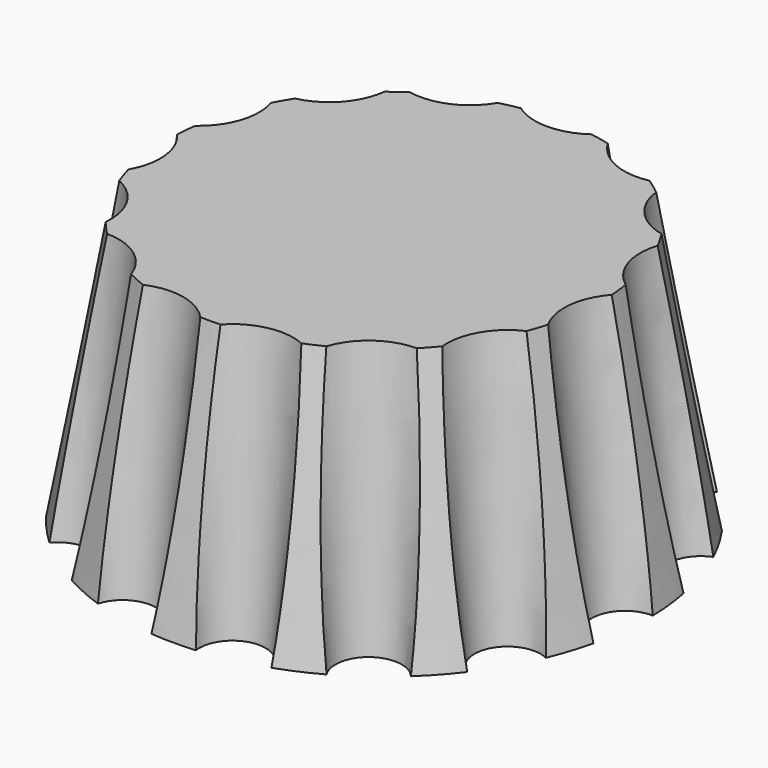
from build123d import *

# Parameters (mm, degrees)
SKETCH_R           = 20
PAD_DEPTH          = 20
PAD_TAPER          = 10
SKETCH001_R        = 2.5
POCKET_DEPTH       = 20
POCKET_TAPER       = -6
POLARPATTERN_COUNT = 15


with BuildPart() as part:
    # Sketch → Pad (new body)
    with BuildSketch(Plane.XY):
        Circle(SKETCH_R)
    extrude(amount=PAD_DEPTH, taper=PAD_TAPER)

    # Sketch001 → Pocket (cut)
    with BuildSketch(Plane.XY):
        with Locations((0, 20)):
            Circle(SKETCH001_R)
    pocket = extrude(amount=POCKET_DEPTH, taper=POCKET_TAPER, mode=Mode.SUBTRACT)

    # PolarPattern: Pocket ×15 about axis
    polarpattern_axis = Axis((0, 0, 0), (0, 0, 1))
    for i in range(1, POLARPATTERN_COUNT):
        add(pocket.rotate(polarpattern_axis, i * 360 / POLARPATTERN_COUNT), mode=Mode.SUBTRACT)


solid = part.part
